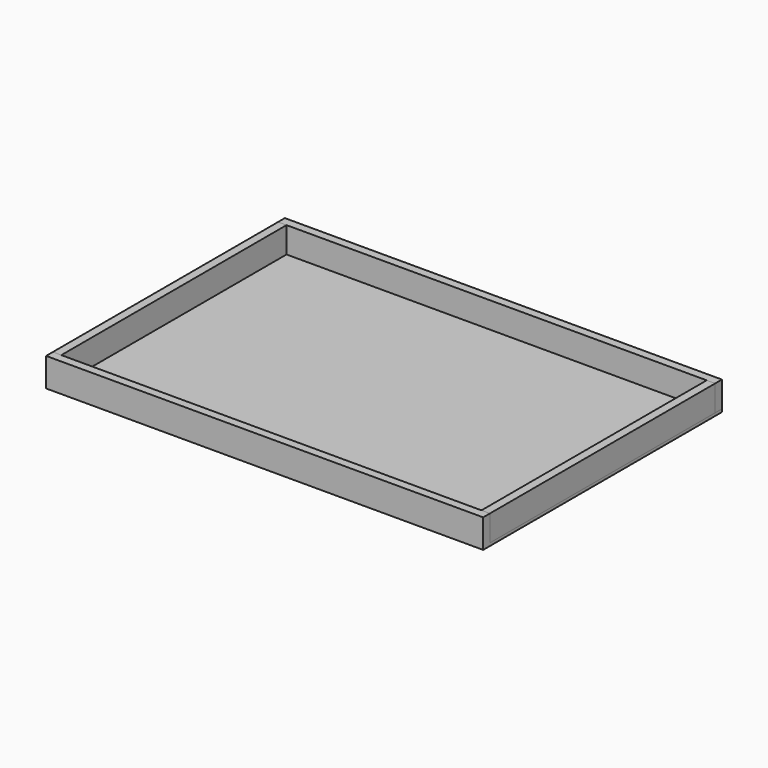
from build123d import *

# Parameters (mm, degrees)
F0_W     = 930
F0_H     = 635
F1_DEPTH = 6
F2_W     = 18
F2_H     = 55
F3_DEPTH = 930
F4_W     = 18
F4_H     = 55
F5_DEPTH = 930
F6_W     = 18
F6_H     = 55
F7_DEPTH = 599
F8_W     = 18
F8_H     = 55
F9_DEPTH = 599


with BuildPart() as f1:
    # F0 (on Top) → F1 (new body)
    with BuildSketch(Plane.XY):
        Rectangle(F0_W, F0_H)
    extrude(amount=F1_DEPTH)

    # F2 (on face) → F3 (join)
    with BuildSketch(Plane.YZ.offset(465)):
        with Locations((-308.5, 33.5)):
            Rectangle(F2_W, F2_H)
    extrude(amount=-F3_DEPTH)


with BuildPart() as f5:
    # F4 (on face) → F5 (new body)
    with BuildSketch(Plane.YZ.offset(465)):
        with Locations((308.5, 33.5)):
            Rectangle(F4_W, F4_H)
    extrude(amount=-F5_DEPTH)


with BuildPart() as f7:
    # F6 (on face) → F7 (new body, through all)
    with BuildSketch(Plane.XZ.offset(-299.5)):
        with Locations((456, 33.5)):
            Rectangle(F6_W, F6_H)
    extrude(amount=F7_DEPTH)


with BuildPart() as f9:
    # F8 (on face) → F9 (new body, through all)
    with BuildSketch(Plane.XZ.offset(-299.5)):
        with Locations((-456, 33.5)):
            Rectangle(F8_W, F8_H)
    extrude(amount=F9_DEPTH)


solid = Compound([f1.part, f5.part, f7.part, f9.part])
